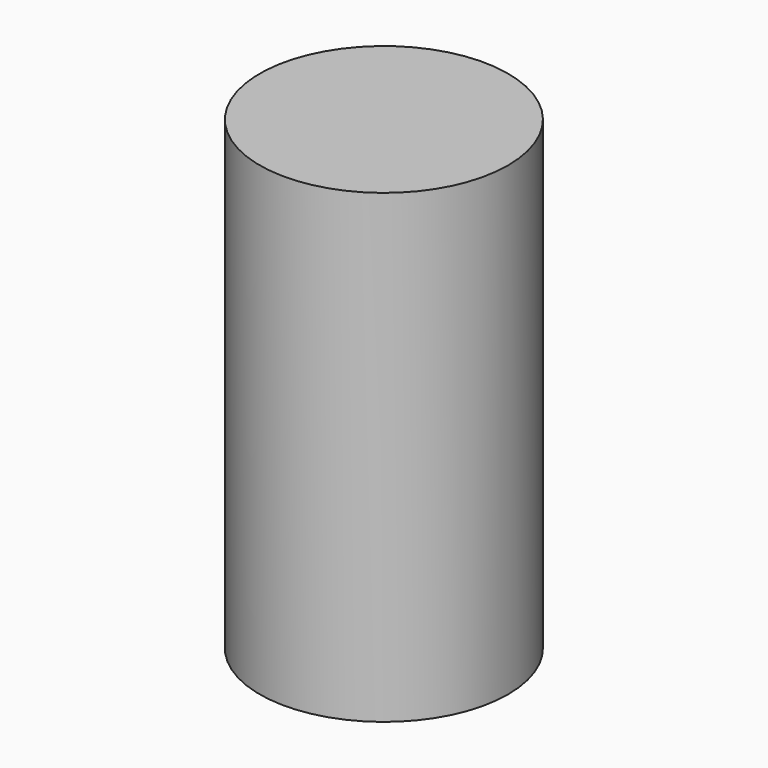
from build123d import *

# Parameters (mm, degrees)
F0_R     = 5.08
F1_DEPTH = 12.7
F3_DEPTH = 25.4
F4_R     = 5.08
F5_DEPTH = 3.175
F6_R     = 5.08
F7_DEPTH = 3.175
F8_R     = 3.175
F9_DEPTH = 3.175


with BuildPart() as f1:
    # F0 (on Top) → F1 (new body)
    with BuildSketch(Plane.XY):
        Circle(F0_R)
    extrude(amount=F1_DEPTH)

    # F2 (on face) → F3 (cut)
    with BuildSketch(Plane.XY.offset(12.7)):
        with BuildLine():
            Line((1.5875, -2.749631), (1.5875, 2.749631))
            ThreePointArc((1.5875, 2.749631), (-3.175, 0), (1.5875, -2.749631))
        make_face()
    extrude(amount=-F3_DEPTH, mode=Mode.SUBTRACT)

    # F4 (on face) → F5 (join)
    with BuildSketch(Plane.XY.offset(12.7)):
        Circle(F4_R)
    extrude(amount=F5_DEPTH)

    # F6 (on face) → F7 (join)
    with BuildSketch(Plane(origin=(0, 0, 0), x_dir=(1, 0, 0), z_dir=(0, 0, -1))):
        Circle(F6_R)
    extrude(amount=F7_DEPTH)

    # F8 (on face) → F9 (cut)
    with BuildSketch(Plane(origin=(0, 0, -3.175), x_dir=(1, 0, 0), z_dir=(0, 0, -1))):
        Circle(F8_R)
    extrude(amount=-F9_DEPTH, mode=Mode.SUBTRACT)


solid = f1.part
